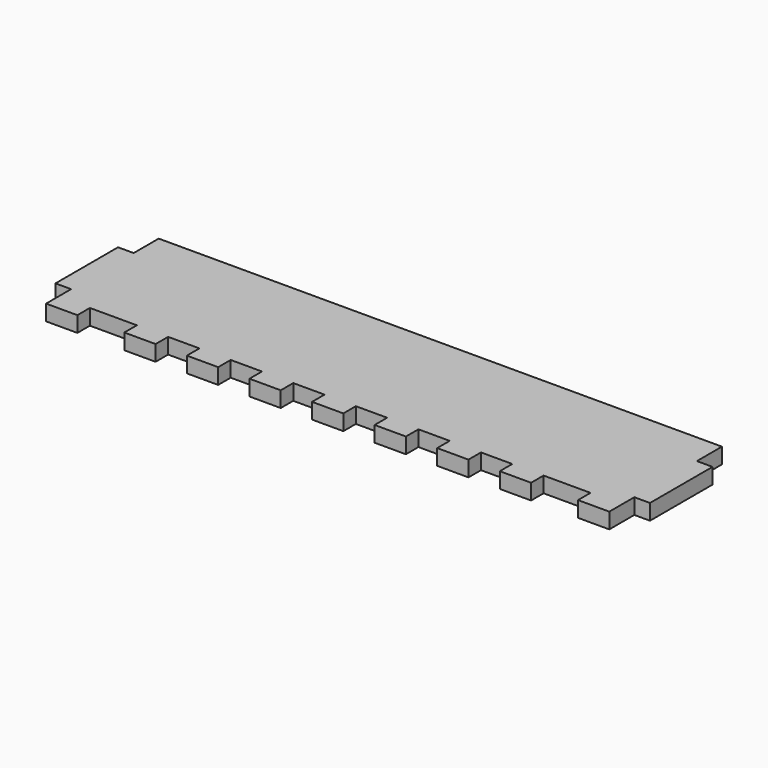
from build123d import *

# Parameters (mm, degrees)
F1_DEPTH = 6.35


with BuildPart() as f1:
    # F0 (on Top) → F1 (new body)
    with BuildSketch(Plane.XY):
        Polygon((234.95, 0), (6.35, 0), (6.35, -12.7), (0, -12.7), (0, -44.45), (6.35, -44.45), (6.35, -57.15), (19.05, -57.15), (19.05, -50.8), (38.1, -50.8), (38.1, -57.15), (50.8, -57.15), (50.8, -50.8), (63.5, -50.8), (63.5, -57.15), (76.2, -57.15), (76.2, -50.8), (88.9, -50.8), (88.9, -57.15), (101.6, -57.15), (101.6, -50.8), (114.3, -50.8), (114.3, -57.15), (127, -57.15), (127, -50.8), (139.7, -50.8), (139.7, -57.15), (152.4, -57.15), (152.4, -50.8), (165.1, -50.8), (165.1, -57.15), (177.8, -57.15), (177.8, -50.8), (190.5, -50.8), (190.5, -57.15), (203.2, -57.15), (203.2, -50.8), (222.25, -50.8), (222.25, -57.15), (234.95, -57.15), (234.95, -44.45), (241.3, -44.45), (241.3, -12.7), (234.95, -12.7), align=None)
    extrude(amount=F1_DEPTH)


solid = f1.part
